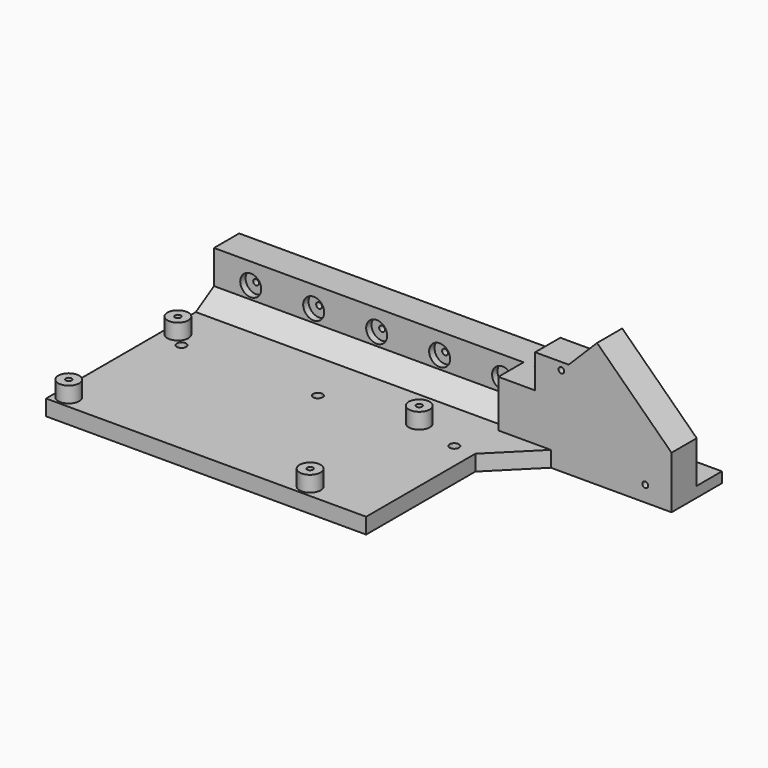
from build123d import *

# Parameters (mm, degrees)
PAD004_DEPTH            = 15
SKETCH010_W             = 305
SKETCH010_H             = 30
PAD005_DEPTH            = 60
HOLE002_D               = 5.5
HOLE002_DEPTH           = 57
HOLE002_CBORE_D         = 20
HOLE002_CBORE_DEPTH     = 6.4
PAD006_DEPTH            = 305
SKETCH013_R             = 4.5
HOLE003_DEPTH           = 25
PAD011_DEPTH            = 30
SKETCH026_R             = 2.75
HOLE006_DEPTH           = 230.001
SKETCH027_W             = 30
SKETCH027_H             = 6
POCKET004_DEPTH         = 172
SKETCH028_R             = 10
PAD012_DEPTH            = 30
SKETCH029_R             = 2.75
HOLE007_DEPTH           = 37
BODY005_PLACEMENT_ANGLE = 180


with BuildPart() as part:
    # Sketch009 → Pad004 (new body)
    with BuildSketch(Plane.XY):
        Polygon((-155, 0), (305, 0), (305, 230), (0, 230), (0, 100), (-40, 60), (-155, 60), align=None)
    extrude(amount=PAD004_DEPTH)

    # Sketch010 → Pad005 (join)
    with BuildSketch(Plane.XY):
        with Locations((152.5, 15)):
            Rectangle(SKETCH010_W, SKETCH010_H)
    extrude(amount=PAD005_DEPTH)

    # Hole002
    with Locations(Plane(origin=(0, 30, 0), x_dir=(1, 0, 0), z_dir=(0, 1, 0))):
        with Locations((270, -40), (210, -40), (150, -40), (90, -40), (30, -40)):
            CounterBoreHole(HOLE002_D / 2, HOLE002_CBORE_D / 2, HOLE002_CBORE_DEPTH, depth=HOLE002_DEPTH)

    # Sketch012 → Pad006 (join)
    with BuildSketch(Plane.YZ):
        Polygon((30, 28), (60, 10), (30, 10), align=None)
    extrude(amount=PAD006_DEPTH)

    # Sketch013 → Hole003 (cut)
    with BuildSketch(Plane.XY.offset(15)):
        with Locations((20, 100)):
            Circle(SKETCH013_R)
        with Locations((280, 100)):
            Circle(SKETCH013_R)
        with Locations((150, 100)):
            Circle(SKETCH013_R)
    extrude(amount=-HOLE003_DEPTH, mode=Mode.SUBTRACT)

    # Sketch025 → Pad011 (join)
    with BuildSketch(Plane.XZ.offset(-30)):
        Polygon((-25, 60), (-25, 92), (-57, 92), (-84, 119), (-155, 50), (-155, 0), (10, 0), (10, 60), align=None)
    extrude(amount=-PAD011_DEPTH)

    # Sketch026 → Hole006 (cut, through all)
    with BuildSketch(Plane.XZ):
        with Locations((-50, 85)):
            Circle(SKETCH026_R)
        with Locations((-130, 15)):
            Circle(SKETCH026_R)
    extrude(amount=-HOLE006_DEPTH, mode=Mode.SUBTRACT)

    # Sketch027 → Pocket004 (cut)
    with BuildSketch(Plane.YZ):
        with Locations((15, 13)):
            Rectangle(SKETCH027_W, SKETCH027_H)
    extrude(amount=-POCKET004_DEPTH, mode=Mode.SUBTRACT)

    # Sketch028 → Pad012 (join)
    with BuildSketch(Plane.XY):
        with Locations((63, 218)):
            Circle(SKETCH028_R)
        with Locations((293, 218)):
            Circle(SKETCH028_R)
        with Locations((293, 88)):
            Circle(SKETCH028_R)
        with Locations((63, 88)):
            Circle(SKETCH028_R)
    extrude(amount=PAD012_DEPTH)

    # Sketch029 → Hole007 (cut)
    with BuildSketch(Plane.XY.offset(30)):
        with Locations((63, 218)):
            Circle(SKETCH029_R)
        with Locations((293, 218)):
            Circle(SKETCH029_R)
        with Locations((293, 88)):
            Circle(SKETCH029_R)
        with Locations((63, 88)):
            Circle(SKETCH029_R)
    extrude(amount=-HOLE007_DEPTH, mode=Mode.SUBTRACT)


with BuildPart() as part_1:
    # Body005 placement: moved
    add(part.part.moved(Location((312, -20, -57))).rotate(Axis((312, -20, -57), (0, 0, 1)), BODY005_PLACEMENT_ANGLE))


solid = part_1.part
